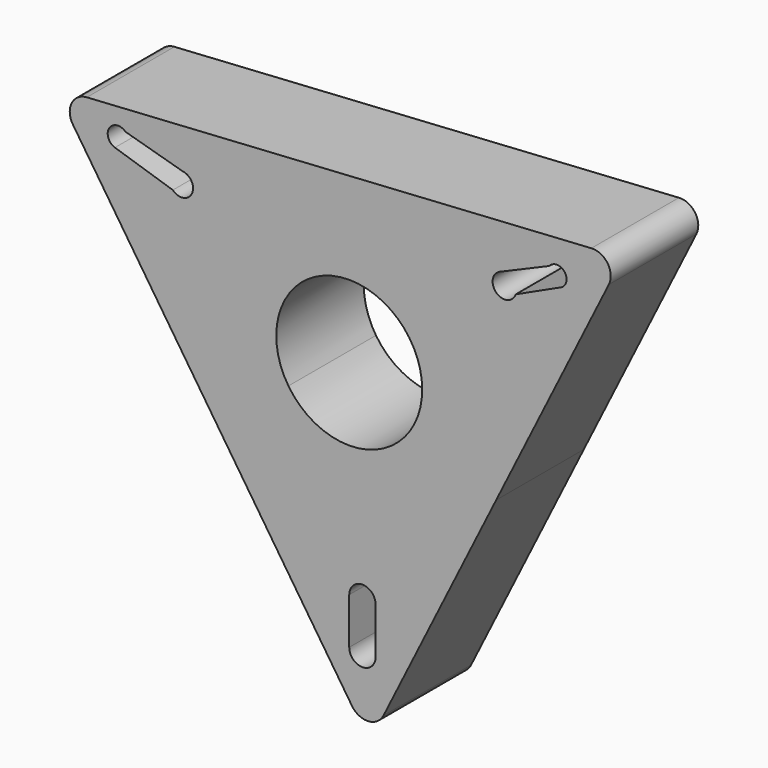
from build123d import *

# Parameters (mm, degrees)
F1_DEPTH = 30


with BuildPart() as f1:
    # F0 (on Front) → F1 (new body)
    with BuildSketch(Plane.XZ):
        with BuildLine():
            ThreePointArc((0, 20), (14.142136, 14.142136), (20, 0))
            ThreePointArc((20, 0), (19.469134, -4.577425), (17.904718, -8.91185))
            Line((17.904718, -8.91185), (40.285615, -20.051663))
            Line((40.285615, -20.051663), (71.15717, 41.972099))
            ThreePointArc((71.15717, 41.972099), (70.848553, 46.962566), (66.372373, 49.190528))
            Line((66.372373, 49.190528), (-71.927489, 40.637867))
            ThreePointArc((-71.927489, 40.637867), (-76.095051, 37.875364), (-75.786434, 32.884897))
            Line((-75.786434, 32.884897), (-37.508057, -24.862535))
            Line((-37.508057, -24.862535), (-16.670248, -11.050015))
            ThreePointArc((-16.670248, -11.050015), (-17.621015, 9.460436), (0, 20))
        make_face()
        with BuildLine():
            ThreePointArc((-64.225286, 31.010479), (-65.802249, 35.195763), (-61.367251, 35.77387))
            Line((-61.367251, 35.77387), (-45.650233, 31.328041))
            ThreePointArc((-45.650233, 31.328041), (-43.146772, 26.70433), (-48.34732, 25.929531))
            Line((-48.34732, 25.929531), (-64.225286, 31.010479))
        make_face(mode=Mode.SUBTRACT)
        with BuildLine():
            ThreePointArc((45.650233, 31.328041), (40.253012, 30.05909), (41.521963, 35.456311))
            Line((41.521963, 35.456311), (54.859448, 41.172378))
            ThreePointArc((54.859448, 41.172378), (59.032649, 41.097014), (58.03505, 37.044104))
            Line((58.03505, 37.044104), (45.650233, 31.328041))
        make_face(mode=Mode.SUBTRACT)
        with BuildLine():
            Line((40.285615, -20.051663), (17.904718, -8.91185))
            ThreePointArc((17.904718, -8.91185), (1.23447, -19.961866), (-16.670248, -11.050015))
            Line((-16.670248, -11.050015), (-37.508057, -24.862535))
            Line((-37.508057, -24.862535), (0.770319, -82.609967))
            ThreePointArc((0.770319, -82.609967), (5.246499, -84.837929), (9.414061, -82.075425))
            Line((9.414061, -82.075425), (40.285615, -20.051663))
        make_face()
        with BuildLine():
            ThreePointArc((0, -56.000769), (3.612779, -52.387991), (7.225557, -56.000769))
            Line((7.225557, -56.000769), (7.225557, -68.703145))
            ThreePointArc((7.225557, -68.703145), (3.612779, -72.315923), (0, -68.703145))
            Line((0, -68.703145), (0, -56.000769))
        make_face(mode=Mode.SUBTRACT)
    extrude(amount=F1_DEPTH)


solid = f1.part
